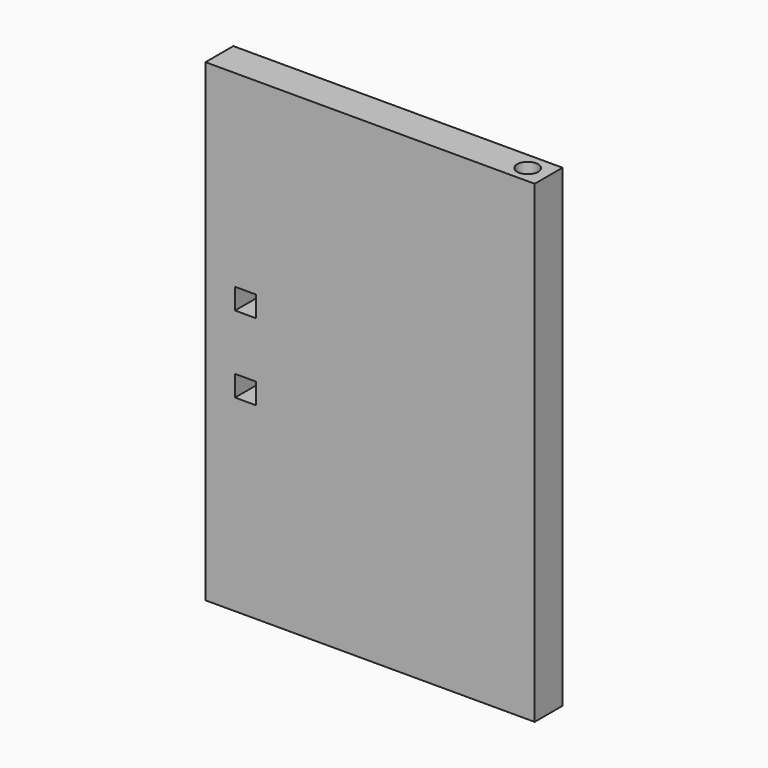
from build123d import *

# Parameters (mm, degrees)
F0_W     = 60.0075
F0_H     = 86.36
F0_W_2   = 3.81
F0_H_2   = 3.81
F1_DEPTH = 6.35
F2_R     = 1.906977
F3_DEPTH = 86.361


with BuildPart() as f1:
    # F0 (on Front) → F1 (new body)
    with BuildSketch(Plane.XZ):
        with Locations((-30.00375, 43.18)):
            Rectangle(F0_W, F0_H)
        with Locations((-52.705, 36.195)):
            Rectangle(F0_W_2, F0_H_2, mode=Mode.SUBTRACT)
        with Locations((-52.705, 50.165)):
            Rectangle(F0_W_2, F0_H_2, mode=Mode.SUBTRACT)
    extrude(amount=F1_DEPTH)

    # F2 (on Top) → F3 (cut, through all)
    with BuildSketch(Plane.XY):
        with Locations((-3.81, -3.175)):
            Circle(F2_R)
    extrude(amount=F3_DEPTH, mode=Mode.SUBTRACT)


solid = f1.part
